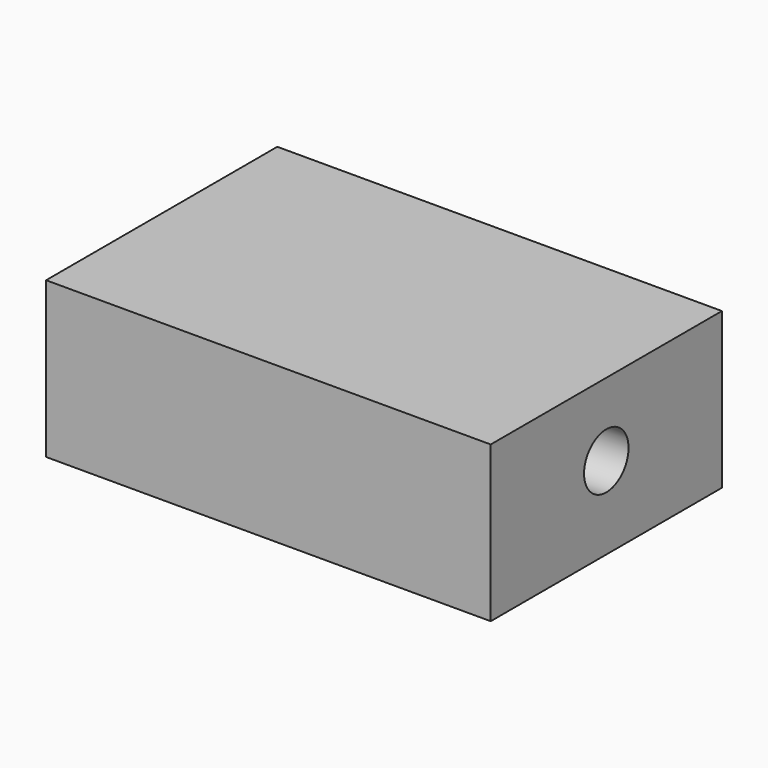
from build123d import *

# Parameters (mm, degrees)
F0_W     = 50.8
F0_H     = 33.02
F0_W_2   = 40.64
F0_H_2   = 22.86
F1_DEPTH = 17.78
F2_DEPTH = 12.7
F3_R     = 3.175
F4_DEPTH = 254


with BuildPart() as f1:
    # F0 (on Top) → F1 (new body)
    with BuildSketch(Plane.XY):
        with Locations((-7.5921734202, -29.6402639918)):
            Rectangle(F0_W, F0_H)
        with Locations((-7.5921734202, -29.6402639918)):
            Rectangle(F0_W_2, F0_H_2, mode=Mode.SUBTRACT)
        with Locations((-7.5921734202, -29.6402639918)):
            Rectangle(F0_W_2, F0_H_2)
    extrude(amount=F1_DEPTH)

    # F0 (on Top) → F2 (cut)
    with BuildSketch(Plane.XY):
        with Locations((-7.5921734202, -29.6402639918)):
            Rectangle(F0_W_2, F0_H_2)
    extrude(amount=F2_DEPTH, mode=Mode.SUBTRACT)

    # F3 (on face) → F4 (cut)
    with BuildSketch(Plane(origin=(-32.9921734202, 0, 0), x_dir=(0, -1, 0), z_dir=(-1, 0, 0))):
        with Locations((29.6402639918, 9.4274014091)):
            Circle(F3_R)
    extrude(amount=-F4_DEPTH, mode=Mode.SUBTRACT)


solid = f1.part
